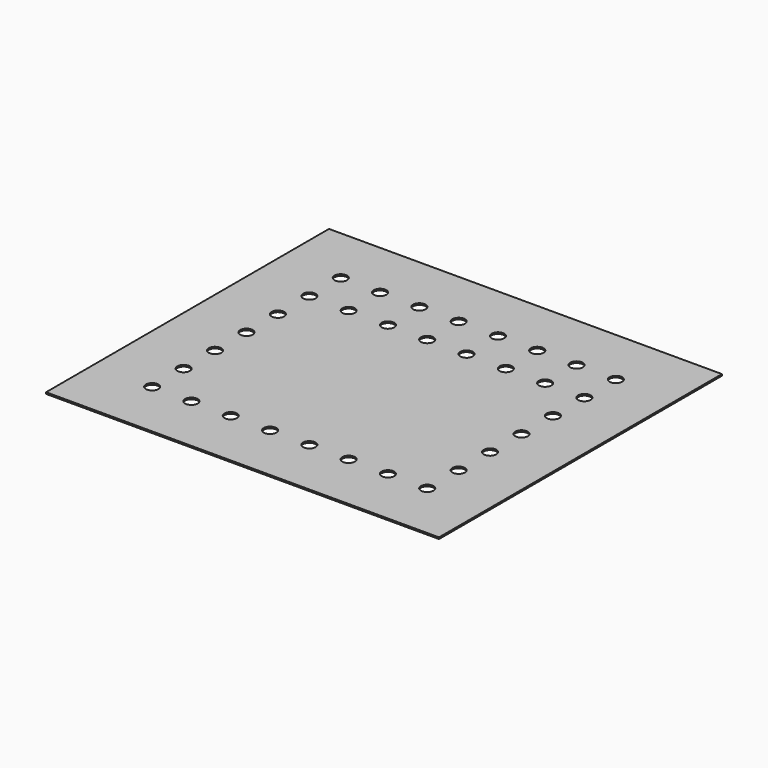
from build123d import *

# Parameters (mm, degrees)
F0_W     = 500
F0_H     = 450
F0_R     = 8
F1_DEPTH = 2


with BuildPart() as f1:
    # F0 (on Top) → F1 (new body)
    with BuildSketch(Plane.XY):
        Rectangle(F0_W, F0_H)
        with Locations((-175, -150)):
            Circle(F0_R, mode=Mode.SUBTRACT)
        with Locations((-125, -150)):
            Circle(F0_R, mode=Mode.SUBTRACT)
        with Locations((-75, -150)):
            Circle(F0_R, mode=Mode.SUBTRACT)
        with Locations((-25, -150)):
            Circle(F0_R, mode=Mode.SUBTRACT)
        with Locations((-175, -100)):
            Circle(F0_R, mode=Mode.SUBTRACT)
        with Locations((-175, -50)):
            Circle(F0_R, mode=Mode.SUBTRACT)
        with Locations((25, -150)):
            Circle(F0_R, mode=Mode.SUBTRACT)
        with Locations((75, -150)):
            Circle(F0_R, mode=Mode.SUBTRACT)
        with Locations((125, -150)):
            Circle(F0_R, mode=Mode.SUBTRACT)
        with Locations((175, -150)):
            Circle(F0_R, mode=Mode.SUBTRACT)
        with Locations((175, -100)):
            Circle(F0_R, mode=Mode.SUBTRACT)
        with Locations((175, -50)):
            Circle(F0_R, mode=Mode.SUBTRACT)
        with Locations((-175, 0)):
            Circle(F0_R, mode=Mode.SUBTRACT)
        with Locations((-175, 50)):
            Circle(F0_R, mode=Mode.SUBTRACT)
        with Locations((-175, 100)):
            Circle(F0_R, mode=Mode.SUBTRACT)
        with Locations((-125, 100)):
            Circle(F0_R, mode=Mode.SUBTRACT)
        with Locations((-75, 100)):
            Circle(F0_R, mode=Mode.SUBTRACT)
        with Locations((-25, 100)):
            Circle(F0_R, mode=Mode.SUBTRACT)
        with Locations((-175, 150)):
            Circle(F0_R, mode=Mode.SUBTRACT)
        with Locations((-125, 150)):
            Circle(F0_R, mode=Mode.SUBTRACT)
        with Locations((-75, 150)):
            Circle(F0_R, mode=Mode.SUBTRACT)
        with Locations((-25, 150)):
            Circle(F0_R, mode=Mode.SUBTRACT)
        with Locations((25, 100)):
            Circle(F0_R, mode=Mode.SUBTRACT)
        with Locations((75, 100)):
            Circle(F0_R, mode=Mode.SUBTRACT)
        with Locations((175, 0)):
            Circle(F0_R, mode=Mode.SUBTRACT)
        with Locations((175, 50)):
            Circle(F0_R, mode=Mode.SUBTRACT)
        with Locations((125, 100)):
            Circle(F0_R, mode=Mode.SUBTRACT)
        with Locations((175, 100)):
            Circle(F0_R, mode=Mode.SUBTRACT)
        with Locations((25, 150)):
            Circle(F0_R, mode=Mode.SUBTRACT)
        with Locations((75, 150)):
            Circle(F0_R, mode=Mode.SUBTRACT)
        with Locations((125, 150)):
            Circle(F0_R, mode=Mode.SUBTRACT)
        with Locations((175, 150)):
            Circle(F0_R, mode=Mode.SUBTRACT)
    extrude(amount=F1_DEPTH)


solid = f1.part
